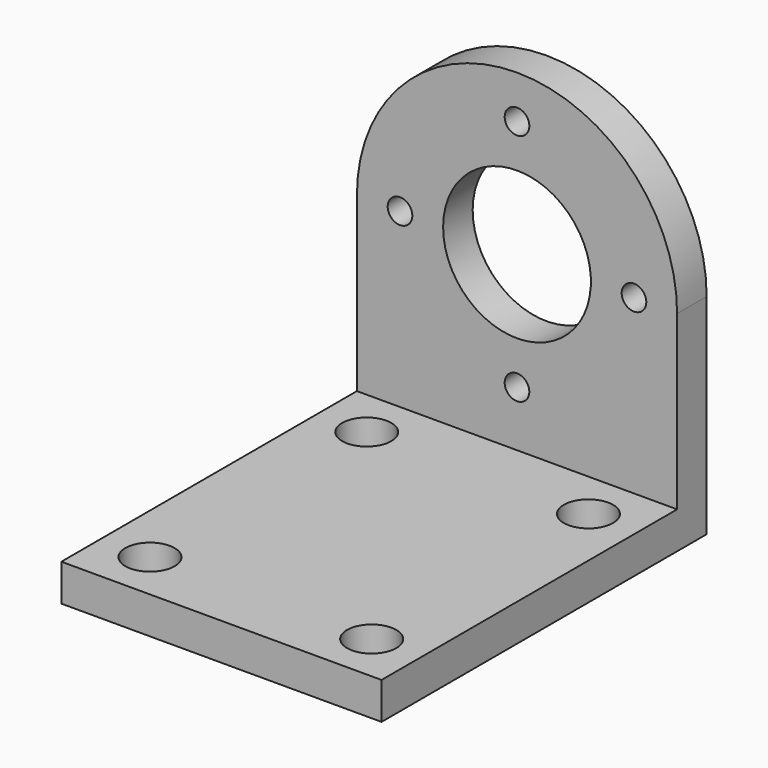
from build123d import *

# Parameters (mm, degrees)
SKETCH121_R             = 6
PAD085_DEPTH            = 3
SKETCH122_W             = 26
SKETCH122_H             = 3
PAD086_DEPTH            = 30
SKETCH123_R             = 2
POCKET048_DEPTH         = 30.001
SKETCH124_R             = 1
POCKET049_DEPTH         = 136.248276
POLARPATTERN018_COUNT   = 4
BODY050_PLACEMENT_ANGLE = 180


with BuildPart() as part:
    # Sketch121 → Pad085 (new body)
    with BuildSketch(Plane.XZ):
        with BuildLine():
            Line((-13, 17), (13, 17))
            Line((13, 17), (13, 0))
            ThreePointArc((-13, 0), (0, -13), (13, 0))
            Line((-13, 17), (-13, 0))
        make_face()
        Circle(SKETCH121_R, mode=Mode.SUBTRACT)
    extrude(amount=PAD085_DEPTH)

    # Sketch122 (on Face7 of Pad085) → Pad086 (join)
    with BuildSketch(Plane.XZ.offset(3)):
        with Locations((0, 15.5)):
            Rectangle(SKETCH122_W, SKETCH122_H)
    extrude(amount=PAD086_DEPTH)

    # Sketch123 (on Face5 of Pad086) → Pocket048 (cut, through all)
    with BuildSketch(Plane(origin=(0, 0, 17), x_dir=(-1, 0, 0), z_dir=(0, 0, 1))):
        with Locations((-9, 7)):
            Circle(SKETCH123_R)
        with Locations((9, 7)):
            Circle(SKETCH123_R)
        with Locations((-9, 29)):
            Circle(SKETCH123_R)
        with Locations((9, 29)):
            Circle(SKETCH123_R)
    extrude(amount=-POCKET048_DEPTH, mode=Mode.SUBTRACT)

    # Sketch124 (on Face4 of Pocket048) → Pocket049 (cut, through all)
    with BuildSketch(Plane(origin=(0, 0, 0), x_dir=(1, 0, 0), z_dir=(0, 1, 0))):
        with Locations((0, 9.5)):
            Circle(SKETCH124_R)
    pocket049 = extrude(amount=-POCKET049_DEPTH, mode=Mode.SUBTRACT)

    # PolarPattern018: Pocket049 ×4 about axis
    polarpattern018_axis = Axis((0, 0, 0), (0, 1, 0))
    for i in range(1, POLARPATTERN018_COUNT):
        add(pocket049.rotate(polarpattern018_axis, i * 360 / POLARPATTERN018_COUNT), mode=Mode.SUBTRACT)


with BuildPart() as part_1:
    # Body050 placement: moved
    add(part.part.moved(Location((-48.540115, 19.040115, 18))).rotate(Axis((-48.540115, 19.040115, 18), (0, 1, 0)), BODY050_PLACEMENT_ANGLE))


solid = part_1.part
